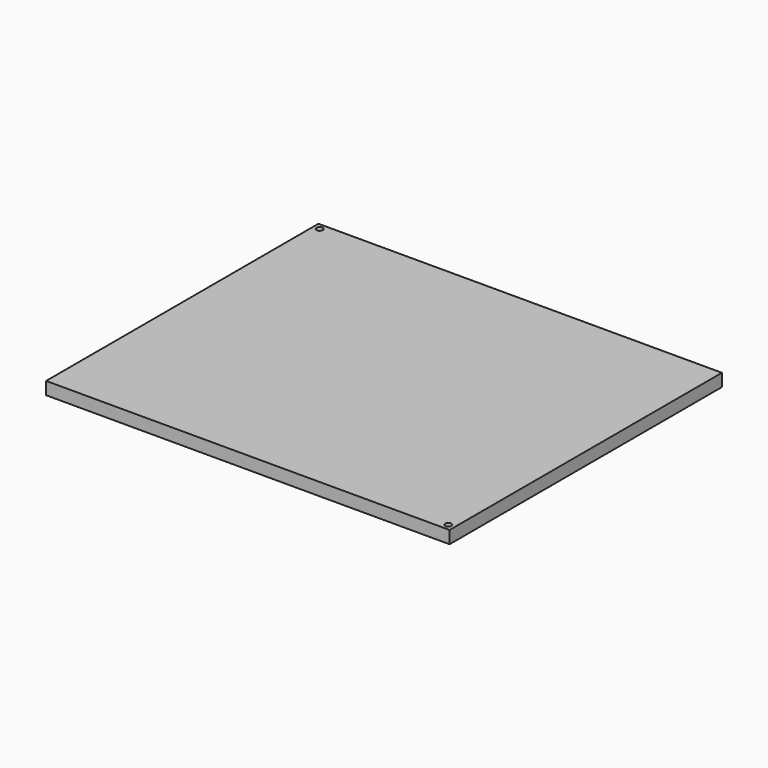
from build123d import *

# Parameters (mm, degrees)
F0_W     = 64
F0_H     = 54
F1_DEPTH = 2
F4_D     = 1
F5_D     = 1


with BuildPart() as f1:
    # F0 (on Top) → F1 (new body)
    with BuildSketch(Plane.XY):
        Rectangle(F0_W, F0_H)
    extrude(amount=F1_DEPTH)

    # F4 (through all)
    with Locations(Plane.XY.offset(2)):
        with Locations((31, -26)):
            Hole(F4_D / 2)

    # F5 (through all)
    with Locations(Plane.XY.offset(2)):
        with Locations((-31, 26)):
            Hole(F5_D / 2)


solid = f1.part
